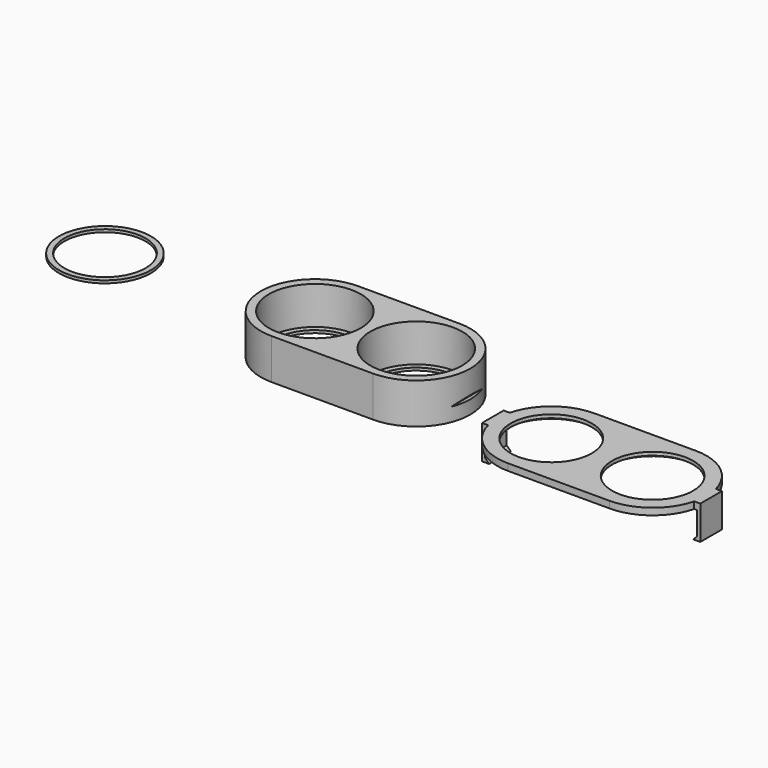
from build123d import *

# Parameters (mm, degrees)
F0_R      = 30
F1_DEPTH  = 30
F2_R      = 34
F3_DEPTH  = 28
F4_R      = 34
F4_R_2    = 30
F5_DEPTH  = 2
F6_R      = 30
F7_DEPTH  = 5
F8_R      = 34
F9_DEPTH  = 2.5
F10_W     = 4.5
F10_H     = 20
F11_DEPTH = 5
F12_W     = 2.25
F12_H     = 20
F13_DEPTH = 20
F15_DEPTH = 20
F17_DEPTH = 96.829974


with BuildPart() as f1:
    # F0 (on Top) → F1 (new body)
    with BuildSketch(Plane.XY):
        with BuildLine():
            Line((37.5, 40), (-37.5, 40))
            ThreePointArc((-37.5, 40), (-77.5, 0), (-37.5, -40))
            Line((-37.5, -40), (37.5, -40))
            ThreePointArc((37.5, -40), (77.5, 0), (37.5, 40))
        make_face()
        with Locations((-37.5, 0)):
            Circle(F0_R, mode=Mode.SUBTRACT)
        with Locations((37.5, 0)):
            Circle(F0_R, mode=Mode.SUBTRACT)
    extrude(amount=F1_DEPTH)

    # F2 (on face) → F3 (cut)
    with BuildSketch(Plane.XY.offset(30)):
        with Locations((-37.5, 0)):
            Circle(F2_R)
        with Locations((37.5, 0)):
            Circle(F2_R)
    extrude(amount=-F3_DEPTH, mode=Mode.SUBTRACT)

    # F16 (on face) → F17 (cut, through all)
    with BuildSketch(Plane.XZ.offset(40)):
        Polygon((-74.797963, 10), (-77.797963, 13), (-77.797963, 10), align=None)
        Polygon((77.797963, 13), (74.797963, 10), (77.797963, 10), align=None)
    extrude(amount=-F17_DEPTH, mode=Mode.SUBTRACT)


with BuildPart() as f5:
    # F4 (on Top) → F5 (new body)
    with BuildSketch(Plane.XY):
        with Locations((-211.054564, 22.828974)):
            Circle(F4_R)
        with Locations((-211.054564, 22.828974)):
            Circle(F4_R_2, mode=Mode.SUBTRACT)
    extrude(amount=F5_DEPTH)


with BuildPart() as f7:
    # F6 (on Top) → F7 (new body)
    with BuildSketch(Plane.XY):
        with BuildLine():
            Line((213.535821, 38.547559), (138.535821, 38.547559))
            ThreePointArc((138.535821, 38.547559), (98.535821, -1.452441), (138.535821, -41.452441))
            Line((138.535821, -41.452441), (213.535821, -41.452441))
            ThreePointArc((213.535821, -41.452441), (253.535821, -1.452441), (213.535821, 38.547559))
        make_face()
        with Locations((138.535821, -1.452441)):
            Circle(F6_R, mode=Mode.SUBTRACT)
        with Locations((213.535821, -1.452441)):
            Circle(F6_R, mode=Mode.SUBTRACT)
    extrude(amount=F7_DEPTH)

    # F8 (on face) → F9 (cut)
    with BuildSketch(Plane(origin=(0, 0, 0), x_dir=(1, 0, 0), z_dir=(0, 0, -1))):
        with Locations((138.627172, 1.452441)):
            Circle(F8_R)
        with Locations((213.444471, 1.452441)):
            Circle(F8_R)
    extrude(amount=-F9_DEPTH, mode=Mode.SUBTRACT)

    # F10 (on face) → F11 (join, through all)
    with BuildSketch(Plane(origin=(0, 0, 0), x_dir=(1, 0, 0), z_dir=(0, 0, -1))):
        with Locations((97.555988, 1.452441)):
            Rectangle(F10_W, F10_H)
        with Locations((254.515655, 1.452441)):
            Rectangle(F10_W, F10_H)
    extrude(amount=-F11_DEPTH)

    # F12 (on face) → F13 (join)
    with BuildSketch(Plane(origin=(0, 0, 0), x_dir=(1, 0, 0), z_dir=(0, 0, -1))):
        with Locations((96.430988, 1.452441)):
            Rectangle(F12_W, F12_H)
        with Locations((255.640655, 1.452441)):
            Rectangle(F12_W, F12_H)
    extrude(amount=F13_DEPTH)

    # F14 (on face) → F15 (join, through all)
    with BuildSketch(Plane(origin=(0, 8.547559, 0), x_dir=(-1, 0, 0), z_dir=(0, 1, 0))):
        Polygon((-97.555988, -20), (-97.555988, -17), (-100.555988, -20), align=None)
        Polygon((-251.515655, -20), (-254.515655, -17), (-254.515655, -20), align=None)
    extrude(amount=-F15_DEPTH)


solid = Compound([f1.part, f5.part, f7.part])
